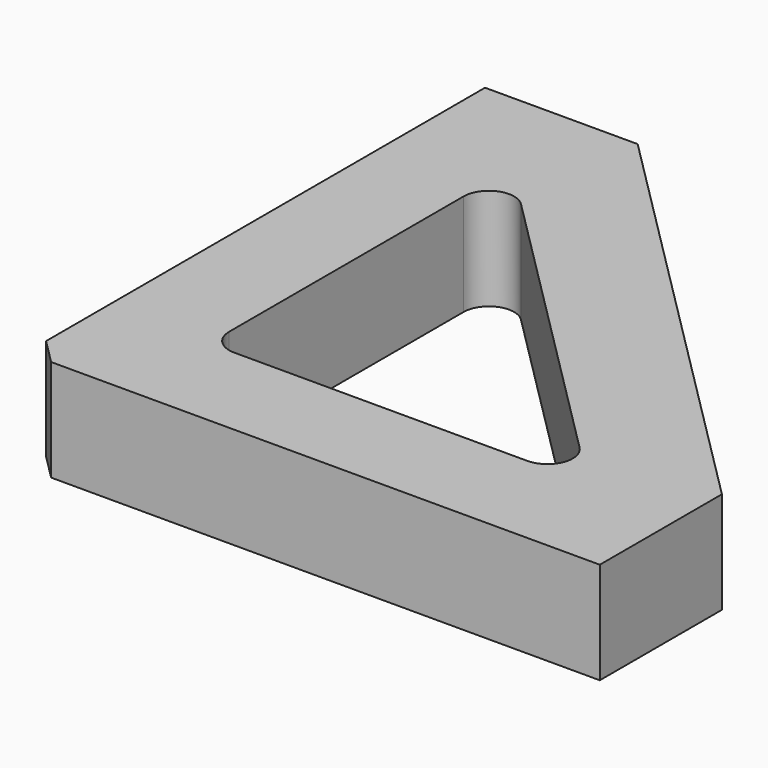
from build123d import *

# Parameters (mm, degrees)
F1_DEPTH = 6.35
F2_SIZE  = 1.5748


with BuildPart() as f1:
    # F0 (on Top) → F1 (new body)
    with BuildSketch(Plane.XY):
        Polygon((9.525, 35.814), (0, 35.814), (0, 0), (35.814, 0), (35.814, 9.525), align=None)
        with BuildLine():
            Line((6.35, 7.9248), (6.35, 26.20684))
            ThreePointArc((6.35, 26.20684), (7.32215, 27.661766), (9.038352, 27.320392))
            Line((9.038352, 27.320392), (27.320392, 9.038352))
            ThreePointArc((27.320392, 9.038352), (27.661766, 7.32215), (26.20684, 6.35))
            Line((26.20684, 6.35), (7.9248, 6.35))
            ThreePointArc((7.9248, 6.35), (6.811248, 6.811248), (6.35, 7.9248))
        make_face(mode=Mode.SUBTRACT)
    extrude(amount=F1_DEPTH)

    # F2
    f2_edges = [f1.edges().sort_by_distance(p)[0] for p in [
        (0, 0, 3.175),
    ]]
    chamfer(f2_edges, length=F2_SIZE)


solid = f1.part
